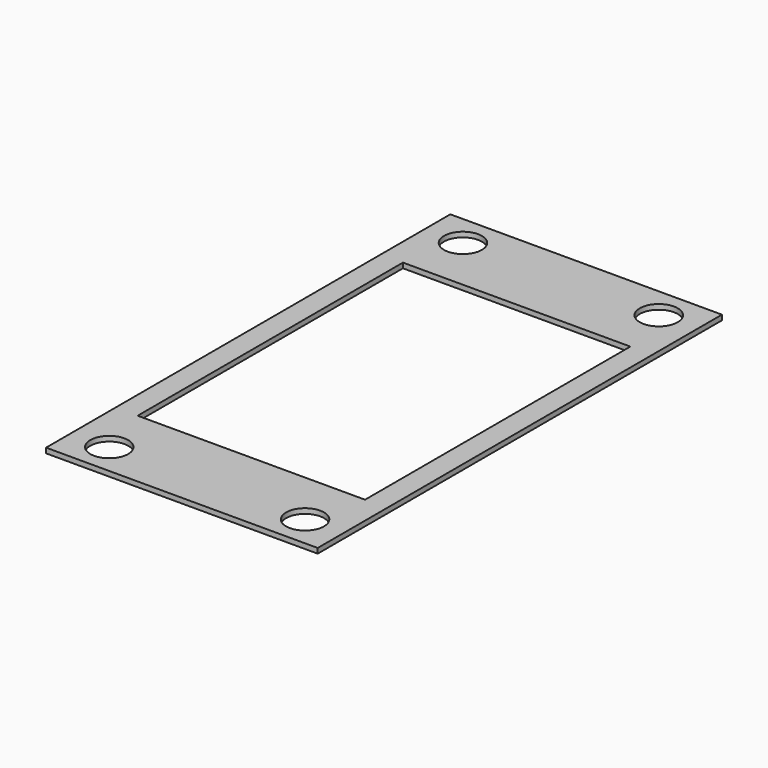
from build123d import *

# Parameters (mm, degrees)
F0_W     = 43
F0_H     = 80
F0_R     = 3
F0_W_2   = 36
F0_H_2   = 52.5
F1_DEPTH = 0.8


with BuildPart() as f1:
    # F0 (on Top) → F1 (new body)
    with BuildSketch(Plane.XY):
        with Locations((2.4, -3.5)):
            Rectangle(F0_W, F0_H)
        with Locations((-13.1, -38.5)):
            Circle(F0_R, mode=Mode.SUBTRACT)
        with Locations((17.9, -38.5)):
            Circle(F0_R, mode=Mode.SUBTRACT)
        with Locations((-13.1, 31.5)):
            Circle(F0_R, mode=Mode.SUBTRACT)
        with Locations((2.4, -3.5)):
            Rectangle(F0_W_2, F0_H_2, mode=Mode.SUBTRACT)
        with Locations((17.9, 31.5)):
            Circle(F0_R, mode=Mode.SUBTRACT)
    extrude(amount=F1_DEPTH)


solid = f1.part
